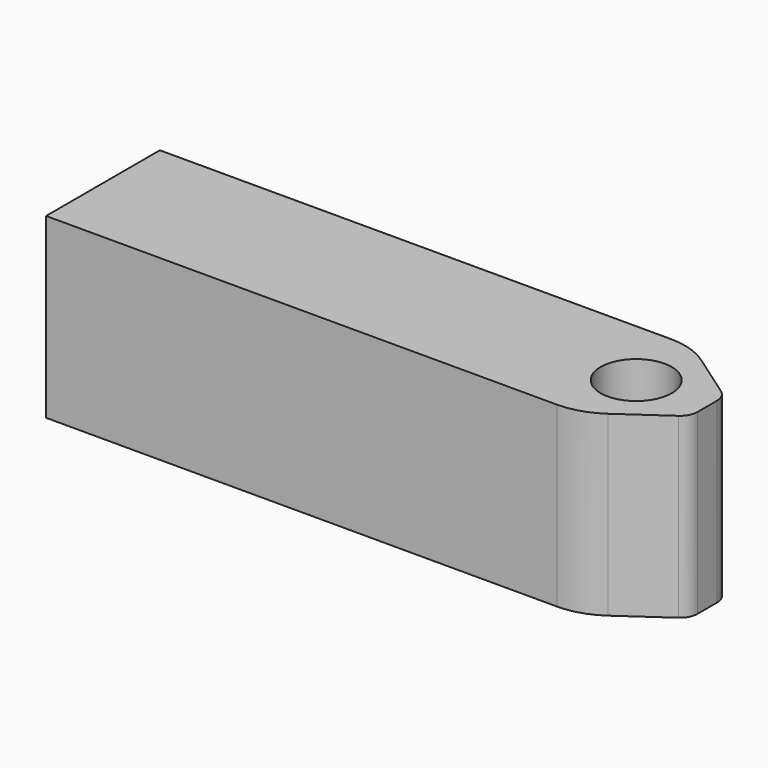
from build123d import *

# Parameters (mm, degrees)
F0_W     = 17
F0_H     = 4
F1_DEPTH = 5
F3_D     = 2
F4_SIZE2 = 1.9994072094
F4_SIZE  = 1.4
F5_R     = 2
F6_R     = 0.5


with BuildPart() as f1:
    # F0 (on Top) → F1 (new body)
    with BuildSketch(Plane.XY):
        Rectangle(F0_W, F0_H)
    extrude(amount=F1_DEPTH)

    # F3 (through all)
    with Locations(Plane.XY.offset(5)):
        with Locations((6.5, 0)):
            Hole(F3_D / 2)

    # F4
    f4_edges = [f1.edges().sort_by_distance(p)[0] for p in [
        (8.5, -2, 2.5),
        (8.5, 2, 2.5),
    ]]
    f4_side = f1.faces().sort_by_distance((8.5, 0, 2.5))[0]
    chamfer(f4_edges, length=F4_SIZE, length2=F4_SIZE2, reference=f4_side)

    # F5
    f5_edges = [f1.edges().sort_by_distance(p)[0] for p in [
        (6.500593, -2, 2.5),
        (6.500593, 2, 2.5),
    ]]
    fillet(f5_edges, radius=F5_R)

    # F6
    f6_edges = [f1.edges().sort_by_distance(p)[0] for p in [
        (8.5, 0.6, 2.5),
        (8.5, -0.6, 2.5),
    ]]
    fillet(f6_edges, radius=F6_R)


solid = f1.part
